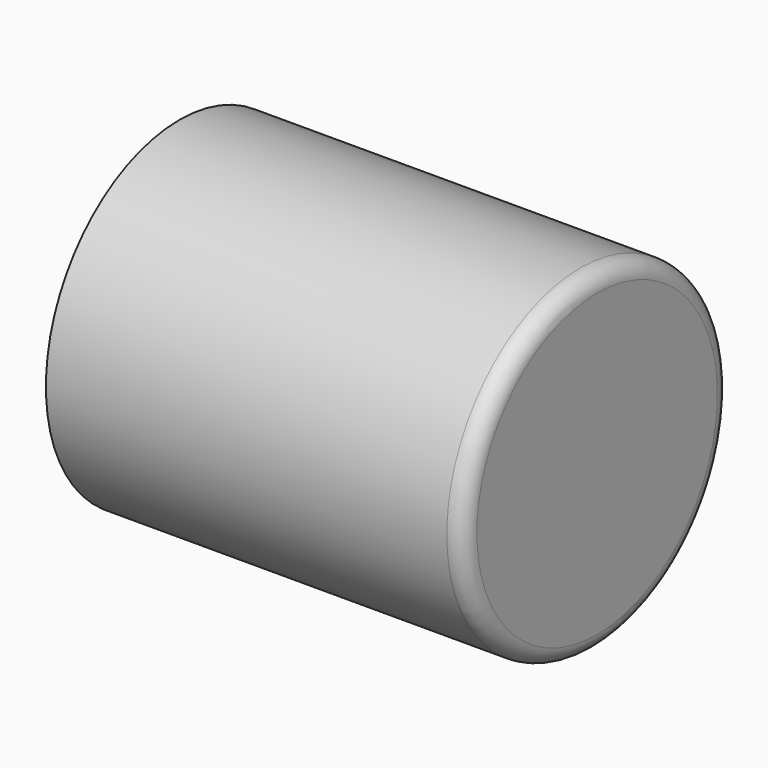
from build123d import *

# Parameters (mm, degrees)
F0_W = 127
F0_H = 50.8
F2_R = 5.08


with BuildPart() as f1:
    # F0 (on Front) → F1 (revolve)
    with BuildSketch(Plane.XZ):
        with Locations((63.5, 25.4)):
            Rectangle(F0_W, F0_H)
    revolve(axis=Axis((63.5, 0, 0), (1, 0, 0)))

    # F2
    f2_edges = [f1.edges().sort_by_distance(p)[0] for p in [
        (127, 0, -50.8),
    ]]
    fillet(f2_edges, radius=F2_R)


solid = f1.part
